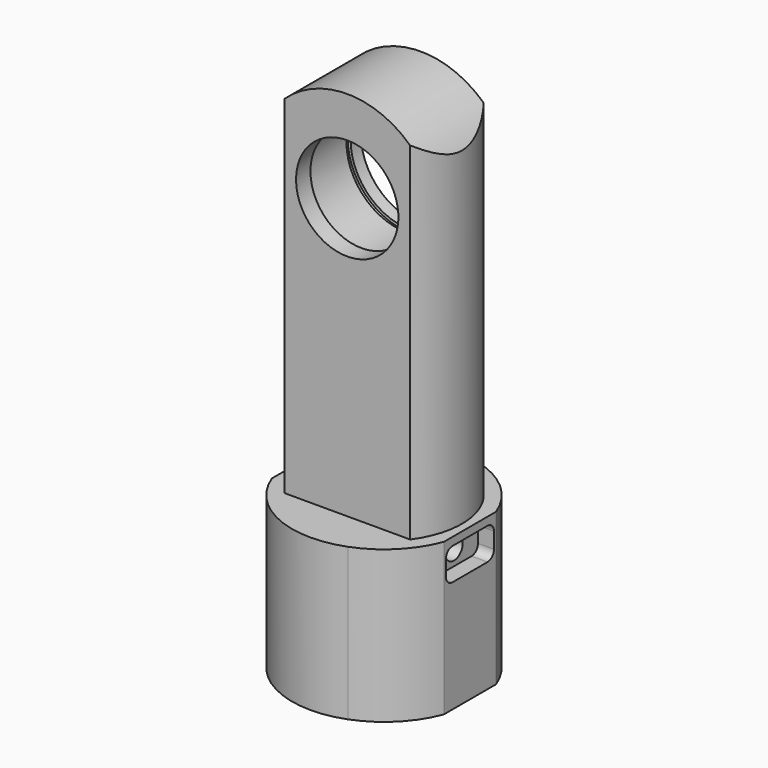
from build123d import *

# Parameters (mm, degrees)
F1_DEPTH  = 38
F2_R      = 20.15
F3_DEPTH  = 26
F5_DEPTH  = 93
F7_DEPTH  = 12.5
F8_R      = 15
F9_DEPTH  = 3.2
F10_R     = 15.7
F11_DEPTH = 1.3
F12_R     = 15
F13_DEPTH = 14
F14_R     = 12.8
F15_DEPTH = 16.001
F17_DEPTH = 4
F19_D     = 5.5
F19_DEPTH = 8.2
F19_TIP   = 1.6523667023
F21_DEPTH = 4
F23_D     = 5.5
F23_DEPTH = 8.2
F23_TIP   = 1.6523667023


with BuildPart() as f1:
    # F0 (on Top) → F1 (new body)
    with BuildSketch(Plane.XY):
        with BuildLine():
            ThreePointArc((8.1700673192, 21.5), (0, 23), (-8.1700673192, 21.5))
            ThreePointArc((-8.1700673192, 21.5), (-16.2634559673, 16.2634559673), (-21.5, 8.1700673192))
            Line((-21.5, 8.1700673192), (-21.5, -8.1700673192))
            ThreePointArc((-21.5, -8.1700673192), (-16.2634559673, -16.2634559673), (-8.1700673192, -21.5))
            ThreePointArc((-8.1700673192, -21.5), (0, -23), (8.1700673192, -21.5))
            ThreePointArc((8.1700673192, -21.5), (16.2634559673, -16.2634559673), (21.5, -8.1700673192))
            Line((21.5, -8.1700673192), (21.5, 8.1700673192))
            ThreePointArc((21.5, 8.1700673192), (16.2634559673, 16.2634559673), (8.1700673192, 21.5))
        make_face()
    extrude(amount=F1_DEPTH)

    # F2 (on Top) → F3 (cut)
    with BuildSketch(Plane.XY):
        Circle(F2_R)
    extrude(amount=F3_DEPTH, mode=Mode.SUBTRACT)

    # F4 (on face) → F5 (join)
    with BuildSketch(Plane.XY.offset(38)):
        with BuildLine():
            Line((15.748015748, 11.5), (-15.748015748, 11.5))
            ThreePointArc((-15.748015748, 11.5), (-19.5, 0), (-15.748015748, -11.5))
            Line((-15.748015748, -11.5), (15.748015748, -11.5))
            ThreePointArc((15.748015748, -11.5), (19.5, 0), (15.748015748, 11.5))
        make_face()
    extrude(amount=F5_DEPTH)

    # F6 (on Front) → F7 (cut, symmetric)
    with BuildSketch(Plane.XZ):
        with BuildLine():
            ThreePointArc((-22.9993669171, 108.1706499767), (-1.4508057769, 130.9541970584), (22.7948567954, 111.0650454609))
            Line((22.7948567954, 111.0650454609), (28.0992928892, 135.5375498533))
            Line((28.0992928892, 135.5375498533), (-36.6138778627, 135.5375498533))
            Line((-36.6138778627, 135.5375498533), (-22.9993669171, 108.1706499767))
        make_face()
    extrude(amount=F7_DEPTH, both=True, mode=Mode.SUBTRACT)

    # F8 (on face) → F9 (cut)
    with BuildSketch(Plane(origin=(0, 11.5, 0), x_dir=(-1, 0, 0), z_dir=(0, 1, 0))):
        with Locations((0, 108)):
            Circle(F8_R)
    extrude(amount=-F9_DEPTH, mode=Mode.SUBTRACT)

    # F10 (on face) → F11 (cut)
    with BuildSketch(Plane(origin=(0, 8.3, 0), x_dir=(-1, 0, 0), z_dir=(0, 1, 0))):
        with Locations((0, 108)):
            Circle(F10_R)
    extrude(amount=-F11_DEPTH, mode=Mode.SUBTRACT)

    # F12 (on face) → F13 (cut)
    with BuildSketch(Plane(origin=(0, 7, 0), x_dir=(-1, 0, 0), z_dir=(0, 1, 0))):
        with Locations((0, 108)):
            Circle(F12_R)
    extrude(amount=-F13_DEPTH, mode=Mode.SUBTRACT)

    # F14 (on face) → F15 (cut, through all)
    with BuildSketch(Plane(origin=(0, -7, 0), x_dir=(-1, 0, 0), z_dir=(0, 1, 0))):
        with Locations((0, 108)):
            Circle(F14_R)
    extrude(amount=-F15_DEPTH, mode=Mode.SUBTRACT)

    # F16 (on face) → F17 (cut)
    with BuildSketch(Plane.YZ.offset(21.5)):
        with BuildLine():
            Line((5.5, 36), (-5.5, 36))
            ThreePointArc((-5.5, 36), (-6.9142135624, 35.4142135624), (-7.5, 34))
            Line((-7.5, 34), (-7.5, 30))
            ThreePointArc((-7.5, 30), (-6.9142135624, 28.5857864376), (-5.5, 28))
            Line((-5.5, 28), (5.5, 28))
            ThreePointArc((5.5, 28), (6.9142135624, 28.5857864376), (7.5, 30))
            Line((7.5, 30), (7.5, 34))
            ThreePointArc((7.5, 34), (6.9142135624, 35.4142135624), (5.5, 36))
        make_face()
    extrude(amount=-F17_DEPTH, mode=Mode.SUBTRACT)

    # F19
    with Locations(Plane.YZ.offset(17.5)):
        with Locations((0, 32)):
            Hole(F19_D / 2, depth=F19_DEPTH)
            with Locations((0, 0, -(F19_DEPTH + F19_TIP / 2))):  # 118° drill point
                Cone(0, F19_D / 2, F19_TIP, mode=Mode.SUBTRACT)

    # F20 (on face) → F21 (cut)
    with BuildSketch(Plane(origin=(-21.5, 0, 0), x_dir=(0, -1, 0), z_dir=(-1, 0, 0))):
        with BuildLine():
            Line((5.5, 36), (-5.5, 36))
            ThreePointArc((-5.5, 36), (-6.9142135624, 35.4142135624), (-7.5, 34))
            Line((-7.5, 34), (-7.5, 30))
            ThreePointArc((-7.5, 30), (-6.9142135624, 28.5857864376), (-5.5, 28))
            Line((-5.5, 28), (5.5, 28))
            ThreePointArc((5.5, 28), (6.9142135624, 28.5857864376), (7.5, 30))
            Line((7.5, 30), (7.5, 34))
            ThreePointArc((7.5, 34), (6.9142135624, 35.4142135624), (5.5, 36))
        make_face()
    extrude(amount=-F21_DEPTH, mode=Mode.SUBTRACT)

    # F23
    with Locations(Plane(origin=(-17.5, 0, 0), x_dir=(0, -1, 0), z_dir=(-1, 0, 0))):
        with Locations((0, 32)):
            Hole(F23_D / 2, depth=F23_DEPTH)
            with Locations((0, 0, -(F23_DEPTH + F23_TIP / 2))):  # 118° drill point
                Cone(0, F23_D / 2, F23_TIP, mode=Mode.SUBTRACT)


solid = f1.part
